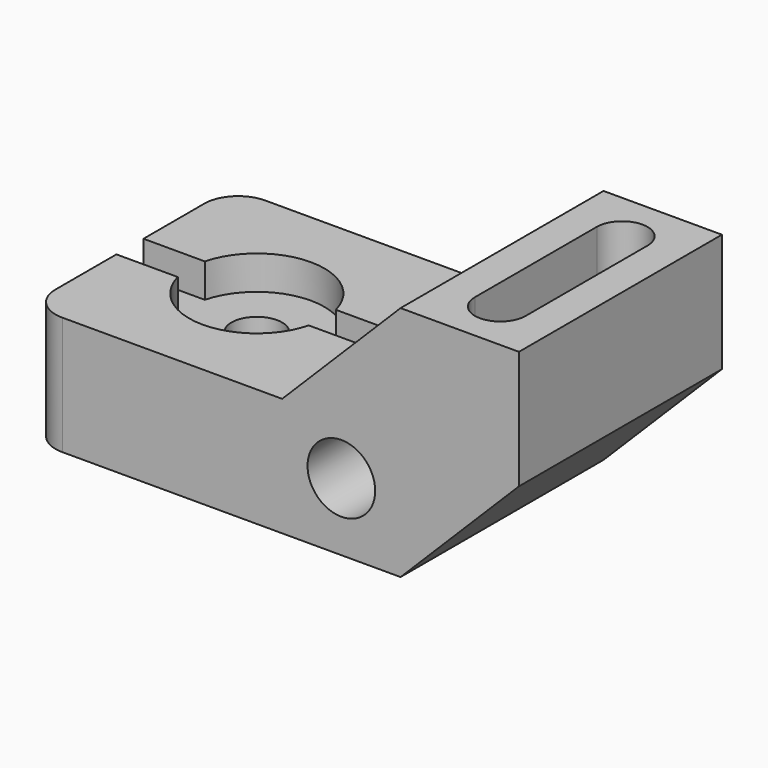
from build123d import *

# Parameters (mm, degrees)
F1_DEPTH       = 38.1
F2_R           = 10.16
F3_R           = 10.16
F4_DEPTH       = 76.201
F6_DEPTH       = 27.94
F8_D           = 15.24
F8_CBORE_D     = 40.64
F8_CBORE_DEPTH = 10.16
F10_DEPTH      = 10.16


with BuildPart() as f1:
    # F0 (on Front) → F1 (new body, symmetric)
    with BuildSketch(Plane.XZ):
        Polygon((0, 35.56), (0, 0), (111.76, 0), (147.32, 35.56), (147.32, 71.12), (111.76, 71.12), (76.2, 35.56), align=None)
    extrude(amount=F1_DEPTH, both=True)

    # F2
    f2_edges = [f1.edges().sort_by_distance(p)[0] for p in [
        (0, -38.1, 17.78),
        (0, 38.1, 17.78),
    ]]
    fillet(f2_edges, radius=F2_R)

    # F3 (on face) → F4 (cut, through all)
    with BuildSketch(Plane.XZ.offset(38.1)):
        with Locations((93.98, 20.32)):
            Circle(F3_R)
    extrude(amount=-F4_DEPTH, mode=Mode.SUBTRACT)

    # F5 (on face) → F6 (cut)
    with BuildSketch(Plane.XY.offset(71.12)):
        with BuildLine():
            Line((137.16, -22.86), (137.16, 22.86))
            ThreePointArc((137.16, 22.86), (129.54, 30.48), (121.92, 22.86))
            Line((121.92, 22.86), (121.92, -22.86))
            ThreePointArc((121.92, -22.86), (129.54, -30.48), (137.16, -22.86))
        make_face()
    extrude(amount=-F6_DEPTH, mode=Mode.SUBTRACT)

    # F8 (through all)
    with Locations(Plane.XY.offset(35.56)):
        with Locations((38.1, 0)):
            CounterBoreHole(F8_D / 2, F8_CBORE_D / 2, F8_CBORE_DEPTH)

    # F9 (on face) → F10 (cut)
    with BuildSketch(Plane.XY.offset(35.56)):
        with BuildLine():
            Line((18.4252446013, 5.08), (0, 5.08))
            Line((0, 5.08), (0, -5.08))
            Line((0, -5.08), (18.4252446013, -5.08))
            ThreePointArc((18.4252446013, -5.08), (17.78, 0), (18.4252446013, 5.08))
        make_face()
        with BuildLine():
            Line((76.2, 5.08), (57.7747553987, 5.08))
            ThreePointArc((57.7747553987, 5.08), (58.2580434281, 2.5604072232), (58.42, 0))
            ThreePointArc((58.42, 0), (58.2580434281, -2.5604072232), (57.7747553987, -5.08))
            Line((57.7747553987, -5.08), (76.2, -5.08))
            Line((76.2, -5.08), (76.2, 5.08))
        make_face()
    extrude(amount=-F10_DEPTH, mode=Mode.SUBTRACT)


solid = f1.part
